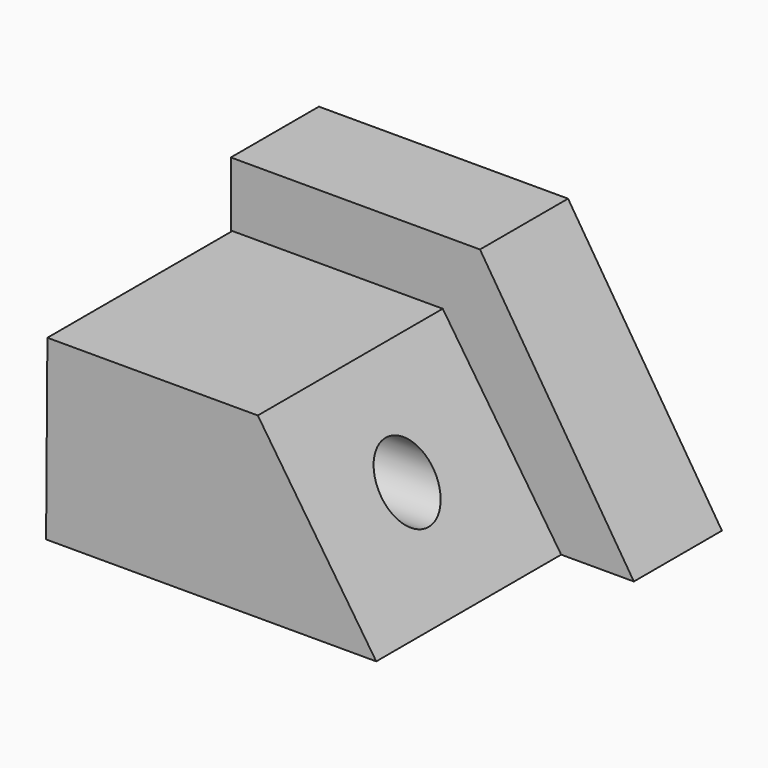
from build123d import *

# Parameters (mm, degrees)
F1_DEPTH = 68.58
F3_DEPTH = 25.4
F4_DEPTH = 10.16
F5_R     = 7.4183703621
F6_DEPTH = 127


with BuildPart() as f1:
    # F0 (on Front) → F1 (new body)
    with BuildSketch(Plane.XZ):
        Polygon((-76.1927291751, 0), (0, 0), (-27.3316595703, 41.0738363862), (-75.8873522282, 41.0738363862), align=None)
    extrude(amount=F1_DEPTH)

    # F2 (on Front) → F3 (join)
    with BuildSketch(Plane.XZ):
        Polygon((-18.7361260581, 55.9061877429), (-76.2327313423, 55.9061877429), (-76.2327313423, 41.2422679365), (-76.3068795204, 0), (0, 0), (16.7718548328, 0), align=None)
    extrude(amount=F3_DEPTH)

    # F4 (add): a face of the model
    f4_faces = [f1.faces().sort_by_distance(p)[0] for p in [
        (-44.3539801272, -68.58, 19.0203203617),
    ]]
    extrude(f4_faces, amount=F4_DEPTH)

    # F5 (on face) → F6 (cut)
    with BuildSketch(Plane(origin=(-76.1885177267, 0, 0.5664485955), x_dir=(0, -1, 0), z_dir=(-0.9999723628, 0, 0.0074346234))):
        with Locations((52.3121915758, 20.9668856114)):
            Circle(F5_R)
    extrude(amount=-F6_DEPTH, mode=Mode.SUBTRACT)


solid = f1.part
